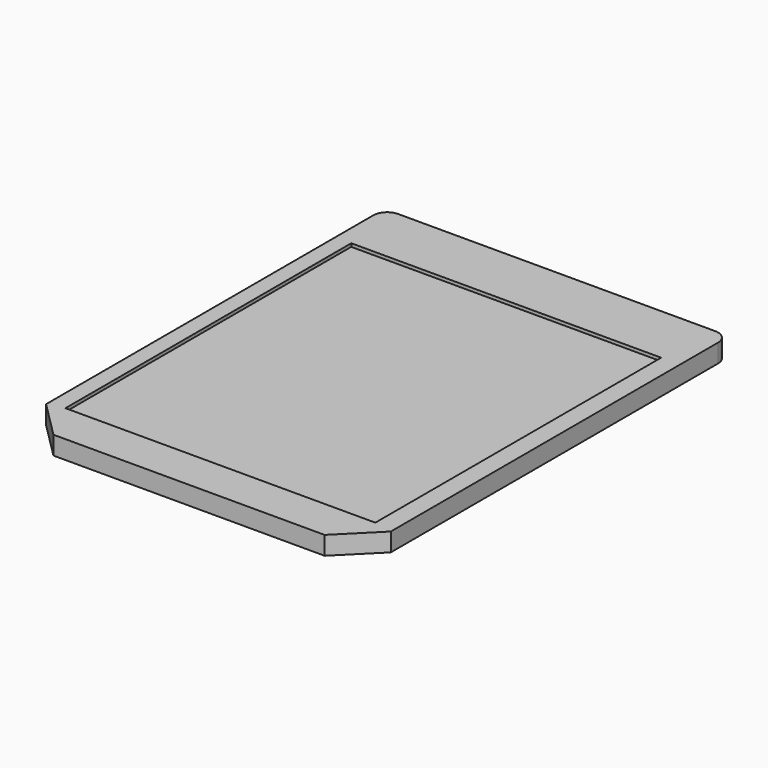
from build123d import *

# Parameters (mm, degrees)
F0_W     = 19.05
F0_H     = 25.4
F1_DEPTH = 1.016
F2_SIZE  = 2.032
F3_SIZE  = 2.032
F4_R     = 0.762
F5_R     = 0.762
F6_W     = 17.124948
F6_H     = 19.74232
F7_DEPTH = 0.1778


with BuildPart() as f1:
    # F0 (on Top) → F1 (new body)
    with BuildSketch(Plane.XY):
        with Locations((9.525, 12.7)):
            Rectangle(F0_W, F0_H)
    extrude(amount=F1_DEPTH)

    # F2
    f2_edges = [f1.edges().sort_by_distance(p)[0] for p in [
        (0, 0, 0.508),
    ]]
    chamfer(f2_edges, length=F2_SIZE)

    # F3
    f3_edges = [f1.edges().sort_by_distance(p)[0] for p in [
        (19.05, 0, 0.508),
    ]]
    chamfer(f3_edges, length=F3_SIZE)

    # F4
    f4_edges = [f1.edges().sort_by_distance(p)[0] for p in [
        (19.05, 25.4, 0.508),
    ]]
    fillet(f4_edges, radius=F4_R)

    # F5
    f5_edges = [f1.edges().sort_by_distance(p)[0] for p in [
        (0, 25.4, 0.508),
    ]]
    fillet(f5_edges, radius=F5_R)

    # F6 (on face) → F7 (cut)
    with BuildSketch(Plane.XY.offset(1.016)):
        with Locations((9.449543, 12.13214)):
            Rectangle(F6_W, F6_H)
    extrude(amount=-F7_DEPTH, mode=Mode.SUBTRACT)


solid = f1.part
